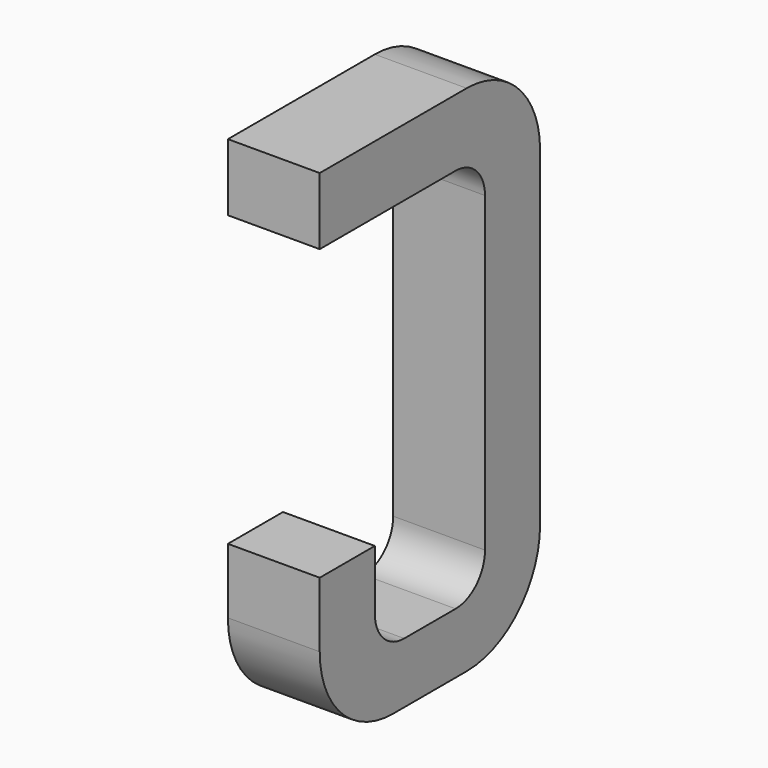
from build123d import *

# Parameters (mm, degrees)
BOX086_W     = 0.5
BOX086_H     = 1.5
BOX086_DEPTH = 2.795
FILLET218_R  = 0.5
FILLET150_R  = 0.5
FILLET233_R  = 0.5
BOX082_W     = 0.75
BOX082_H     = 2.1
BOX082_DEPTH = 1
FILLET230_R  = 0.2
FILLET191_R  = 0.2
FILLET225_R  = 0.2
FILLET227_R  = 0.2
BOX083_W     = 1
BOX083_H     = 1.575
BOX083_DEPTH = 3


with BuildPart() as part:
    # Box086 → Box086 (join)
    with BuildSketch(Plane(origin=(-0.25, 11.125, 0), x_dir=(1, 0, 0), z_dir=(0, 0, 1))):
        with Locations((0.25, 0.75)):
            Rectangle(BOX086_W, BOX086_H)
    extrude(amount=BOX086_DEPTH)

    # Fillet218
    fillet218_edges = [part.edges().sort_by_distance(p)[0] for p in [
        (0, 12.625, 0),
    ]]
    fillet(fillet218_edges, radius=FILLET218_R)

    # Fillet150
    fillet150_edges = [part.edges().sort_by_distance(p)[0] for p in [
        (0, 12.625, 2.795),
    ]]
    fillet(fillet150_edges, radius=FILLET150_R)

    # Fillet233
    fillet233_edges = [part.edges().sort_by_distance(p)[0] for p in [
        (0, 11.125, 0),
    ]]
    fillet(fillet233_edges, radius=FILLET233_R)

    # Box082 → Box082 (cut)
    with BuildSketch(Plane(origin=(-0.5, 11.5, 0.33), x_dir=(0, 1, 0), z_dir=(1, 0, 0))):
        with Locations((0.375, 1.05)):
            Rectangle(BOX082_W, BOX082_H)
    extrude(amount=BOX082_DEPTH, mode=Mode.SUBTRACT)

    # Fillet230
    fillet230_edges = [part.edges().sort_by_distance(p)[0] for p in [
        (0, 11.5, 0.33),
    ]]
    fillet(fillet230_edges, radius=FILLET230_R)

    # Fillet191
    fillet191_edges = [part.edges().sort_by_distance(p)[0] for p in [
        (0, 12.25, 0.33),
    ]]
    fillet(fillet191_edges, radius=FILLET191_R)

    # Fillet225
    fillet225_edges = [part.edges().sort_by_distance(p)[0] for p in [
        (0, 11.5, 2.43),
    ]]
    fillet(fillet225_edges, radius=FILLET225_R)

    # Fillet227
    fillet227_edges = [part.edges().sort_by_distance(p)[0] for p in [
        (0, 12.25, 2.43),
    ]]
    fillet(fillet227_edges, radius=FILLET227_R)

    # Box083 → Box083 (cut)
    with BuildSketch(Plane(origin=(-1, 11, 0.855), x_dir=(0, 1, 0), z_dir=(1, 0, 0))):
        with Locations((0.5, 0.7875)):
            Rectangle(BOX083_W, BOX083_H)
    extrude(amount=BOX083_DEPTH, mode=Mode.SUBTRACT)


with BuildPart() as part_1:
    # Body032 placement: moved
    add(part.part.moved(Location((8.89, 0, 0))))


solid = part_1.part
